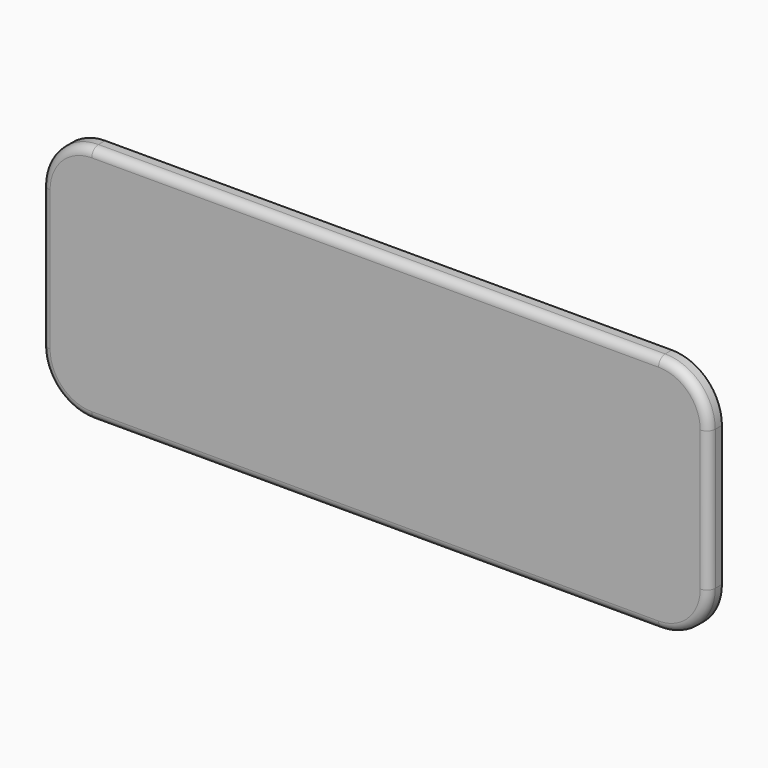
from build123d import *

# Parameters (mm, degrees)
F1_DEPTH = 3.175
F3_R     = 1.5875


with BuildPart() as f1:
    # F0 (on Front) → F1 (new body)
    with BuildSketch(Plane.XZ):
        with BuildLine():
            Line((53.975, 45.72), (-53.975, 45.72))
            ThreePointArc((-53.975, 45.72), (-60.710192, 42.930192), (-63.5, 36.195))
            Line((-63.5, 36.195), (-63.5, 9.525))
            ThreePointArc((-63.5, 9.525), (-60.710192, 2.789808), (-53.975, 0))
            Line((-53.975, 0), (53.975, 0))
            ThreePointArc((53.975, 0), (60.710192, 2.789808), (63.5, 9.525))
            Line((63.5, 9.525), (63.5, 36.195))
            ThreePointArc((63.5, 36.195), (60.710192, 42.930192), (53.975, 45.72))
        make_face()
    extrude(amount=F1_DEPTH)

    # F3
    f3_edges = [f1.edges().sort_by_distance(p)[0] for p in [
        (0, -3.175, 45.72),
        (-60.710192, -3.175, 42.930192),
        (-63.5, -3.175, 22.86),
        (-60.710192, -3.175, 2.789808),
        (0, -3.175, 0),
        (60.710192, -3.175, 2.789808),
        (63.5, -3.175, 22.86),
        (60.710192, -3.175, 42.930192),
    ]]
    fillet(f3_edges, radius=F3_R)


solid = f1.part
